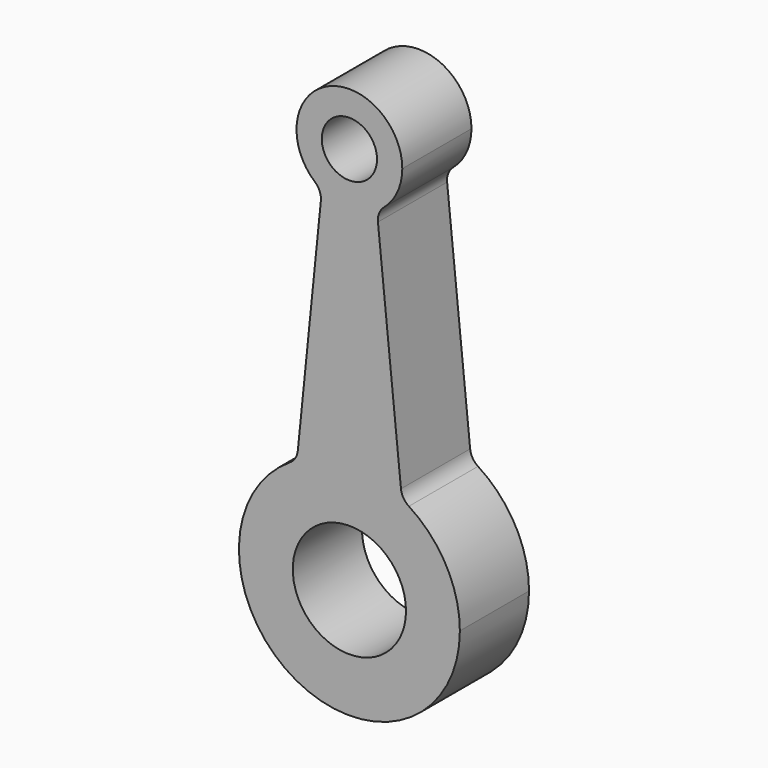
from build123d import *

# Parameters (mm, degrees)
F0_R     = 16.628387
F0_R_2   = 8.110112
F1_DEPTH = 25.4
F2_R     = 5.08


with BuildPart() as f1:
    # F0 (on Front) → F1 (new body)
    with BuildSketch(Plane.XZ):
        with BuildLine():
            ThreePointArc((-15.411044, 28.557638), (-16.627416, -27.866969), (32.450562, 0))
            ThreePointArc((32.450562, 0), (27.866969, 16.627416), (15.411044, 28.557638))
            ThreePointArc((15.411044, 28.557638), (0, 32.450562), (-15.411044, 28.557638))
        make_face()
        Circle(F0_R, mode=Mode.SUBTRACT)
        with BuildLine():
            ThreePointArc((-15.411044, 28.557638), (0, 32.450562), (15.411044, 28.557638))
            Line((15.411044, 28.557638), (8.096426, 100.779159))
            ThreePointArc((8.096426, 100.779159), (0, 98.503095), (-8.096426, 100.779159))
            Line((-8.096426, 100.779159), (-15.411044, 28.557638))
        make_face()
        with BuildLine():
            ThreePointArc((-8.096426, 100.779159), (0, 98.503095), (8.096426, 100.779159))
            ThreePointArc((8.096426, 100.779159), (13.550753, 106.437659), (15.53836, 114.041455))
            ThreePointArc((15.53836, 114.041455), (-7.603796, 127.592208), (-8.096426, 100.779159))
        make_face()
        with Locations((0, 114.041455)):
            Circle(F0_R_2, mode=Mode.SUBTRACT)
    extrude(amount=F1_DEPTH)

    # F2
    f2_edges = [f1.edges().sort_by_distance(p)[0] for p in [
        (15.411044, -12.7, 28.557638),
        (-15.411044, -12.7, 28.557638),
        (-8.096426, -12.7, 100.779159),
        (8.096426, -12.7, 100.779159),
    ]]
    fillet(f2_edges, radius=F2_R)


solid = f1.part
